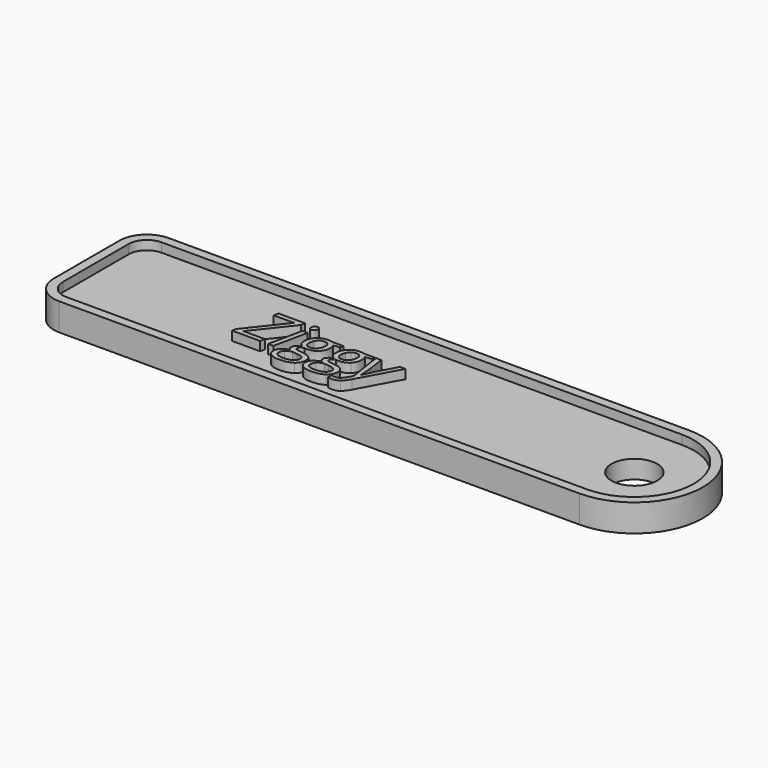
from build123d import *

# Parameters (mm, degrees)
F0_R     = 2.5
F1_DEPTH = 3
F3_DEPTH = 1


with BuildPart() as f1:
    # F0 (on Top) → F1 (new body)
    with BuildSketch(Plane.XY):
        with BuildLine():
            Line((44.131102711, 7.5), (-12.868897289, 7.5))
            ThreePointArc((-12.868897289, 7.5), (-14.9902176326, 6.6213203436), (-15.868897289, 4.5))
            Line((-15.868897289, 4.5), (-15.868897289, -4.5))
            ThreePointArc((-15.868897289, -4.5), (-14.9902176326, -6.6213203436), (-12.868897289, -7.5))
            Line((-12.868897289, -7.5), (44.131102711, -7.5))
            ThreePointArc((44.131102711, -7.5), (51.631102711, 0), (44.131102711, 7.5))
        make_face()
        with Locations((44.131102711, 0)):
            Circle(F0_R, mode=Mode.SUBTRACT)
    extrude(amount=F1_DEPTH)

    # F2 (on face) → F3 (cut)
    with BuildSketch(Plane.XY.offset(3)):
        with BuildLine():
            Line((44.131102711, 6.5), (-12.868897289, 6.5))
            ThreePointArc((-12.868897289, 6.5), (-14.2831108514, 5.9142135624), (-14.868897289, 4.5))
            Line((-14.868897289, 4.5), (-14.868897289, -4.5))
            ThreePointArc((-14.868897289, -4.5), (-14.2831108514, -5.9142135624), (-12.868897289, -6.5))
            Line((-12.868897289, -6.5), (44.131102711, -6.5))
            ThreePointArc((44.131102711, -6.5), (50.631102711, 0), (44.131102711, 6.5))
        make_face()
        with BuildLine():
            Line((10.0521096554, 1.2163628472), (11.310790211, 1.2163628472))
            Line((11.310790211, 1.2163628472), (11.2250697249, 0.8539496528))
            Line((11.2250697249, 0.8539496528), (10.510008961, 0.7725694444))
            add(Edge.make_bspline(
                [(10.510008961, 0.7725694444), (10.6488978499, 0.5620659722), (10.6488978499, 0.2365451389)],
                knots=[0, 0, 0, 1, 1, 1], degree=2))
            add(Edge.make_bspline(
                [(10.6488978499, 0.2365451389), (10.6488978499, -0.4112413194), (10.2539325721, -0.7958984375)],
                knots=[0, 0, 0, 1, 1, 1], degree=2))
            add(Edge.make_bspline(
                [(10.2539325721, -0.7958984375), (9.8589672943, -1.1805555556), (9.1981600026, -1.1805555556)],
                knots=[0, 0, 0, 1, 1, 1], degree=2))
            add(Edge.make_bspline(
                [(9.1981600026, -1.1805555556), (9.0115280582, -1.1805555556), (8.9127867387, -1.1534288194)],
                knots=[0, 0, 0, 1, 1, 1], degree=2))
            add(Edge.make_bspline(
                [(8.9127867387, -1.1534288194), (8.4418665999, -1.3335503472), (8.4418665999, -1.5983072917)],
                knots=[0, 0, 0, 1, 1, 1], degree=2))
            add(Edge.make_bspline(
                [(8.4418665999, -1.5983072917), (8.4418665999, -1.7371961806), (8.5536287526, -1.7827690972)],
                knots=[0, 0, 0, 1, 1, 1], degree=2))
            add(Edge.make_bspline(
                [(8.5536287526, -1.7827690972), (8.6653909054, -1.8283420139), (8.879149586, -1.85546875)],
                knots=[0, 0, 0, 1, 1, 1], degree=2))
            Line((8.879149586, -1.85546875), (9.2762850026, -1.9032118056))
            add(Edge.make_bspline(
                [(9.2762850026, -1.9032118056), (9.8893492387, -1.9780815972), (10.1660419471, -2.2016059028)],
                knots=[0, 0, 0, 1, 1, 1], degree=2))
            add(Edge.make_bspline(
                [(10.1660419471, -2.2016059028), (10.4427346554, -2.4251302083), (10.4427346554, -2.8591579861)],
                knots=[0, 0, 0, 1, 1, 1], degree=2))
            add(Edge.make_bspline(
                [(10.4427346554, -2.8591579861), (10.4427346554, -3.4830729167), (9.947400454, -3.8259548611)],
                knots=[0, 0, 0, 1, 1, 1], degree=2))
            add(Edge.make_bspline(
                [(9.947400454, -3.8259548611), (9.4520662526, -4.1688368056), (8.5536287526, -4.1688368056)],
                knots=[0, 0, 0, 1, 1, 1], degree=2))
            add(Edge.make_bspline(
                [(8.5536287526, -4.1688368056), (7.8960766693, -4.1688368056), (7.5228127804, -3.9192708333)],
                knots=[0, 0, 0, 1, 1, 1], degree=2))
            add(Edge.make_bspline(
                [(7.5228127804, -3.9192708333), (7.1495488915, -3.6697048611), (7.1495488915, -3.2150607639)],
                knots=[0, 0, 0, 1, 1, 1], degree=2))
            add(Edge.make_bspline(
                [(7.1495488915, -3.2150607639), (7.1495488915, -2.8591579861), (7.3936895165, -2.5981987847)],
                knots=[0, 0, 0, 1, 1, 1], degree=2))
            add(Edge.make_bspline(
                [(7.3936895165, -2.5981987847), (7.6378301415, -2.3372395833), (8.1836200721, -2.1538628472)],
                knots=[0, 0, 0, 1, 1, 1], degree=2))
            add(Edge.make_bspline(
                [(8.1836200721, -2.1538628472), (7.9199481971, -2.0149739583), (7.9199481971, -1.7437065972)],
                knots=[0, 0, 0, 1, 1, 1], degree=2))
            add(Edge.make_bspline(
                [(7.9199481971, -1.7437065972), (7.9199481971, -1.5093315972), (8.0924742387, -1.3416883681)],
                knots=[0, 0, 0, 1, 1, 1], degree=2))
            add(Edge.make_bspline(
                [(8.0924742387, -1.3416883681), (8.2650002804, -1.1740451389), (8.5742450721, -1.0286458333)],
                knots=[0, 0, 0, 1, 1, 1], degree=2))
            add(Edge.make_bspline(
                [(8.5742450721, -1.0286458333), (8.3604863915, -0.9201388889), (8.224852711, -0.7080078125)],
                knots=[0, 0, 0, 1, 1, 1], degree=2))
            add(Edge.make_bspline(
                [(8.224852711, -0.7080078125), (8.0892190304, -0.4958767361), (8.0892190304, -0.21484375)],
                knots=[0, 0, 0, 1, 1, 1], degree=2))
            add(Edge.make_bspline(
                [(8.0892190304, -0.21484375), (8.0892190304, 0.4437934028), (8.4944924679, 0.8642578125)],
                knots=[0, 0, 0, 1, 1, 1], degree=2))
            add(Edge.make_bspline(
                [(8.4944924679, 0.8642578125), (8.8997659054, 1.2847222222), (9.5301912526, 1.2847222222)],
                knots=[0, 0, 0, 1, 1, 1], degree=2))
            add(Edge.make_bspline(
                [(9.5301912526, 1.2847222222), (9.7949481971, 1.2847222222), (10.0521096554, 1.2163628472)],
                knots=[0, 0, 0, 1, 1, 1], degree=2))
        make_face(mode=Mode.SUBTRACT)
        Polygon((5.2441669471, -1.9780815972), (5.1324047943, -2.5), (2.0768492387, -2.5), (2.1723353499, -2.0355902778), (5.304930836, 1.9314236111), (3.0837936832, 1.9314236111), (3.1923006276, 2.4576822917), (6.1013718082, 2.4576822917), (6.0134811832, 1.9856770833), (2.8808856971, -1.9780815972), align=None, mode=Mode.SUBTRACT)
        Polygon((7.3806686832, 1.2163628472), (6.5863978499, -2.5), (6.0167363915, -2.5), (6.8110072249, 1.2163628472), align=None, mode=Mode.SUBTRACT)
        with BuildLine():
            Line((13.5308422943, 1.2163628472), (14.7895228499, 1.2163628472))
            Line((14.7895228499, 1.2163628472), (14.7038023637, 0.8539496528))
            Line((14.7038023637, 0.8539496528), (13.9887415999, 0.7725694444))
            add(Edge.make_bspline(
                [(13.9887415999, 0.7725694444), (14.1276304887, 0.5620659722), (14.1276304887, 0.2365451389)],
                knots=[0, 0, 0, 1, 1, 1], degree=2))
            add(Edge.make_bspline(
                [(14.1276304887, 0.2365451389), (14.1276304887, -0.4112413194), (13.732665211, -0.7958984375)],
                knots=[0, 0, 0, 1, 1, 1], degree=2))
            add(Edge.make_bspline(
                [(13.732665211, -0.7958984375), (13.3376999332, -1.1805555556), (12.6768926415, -1.1805555556)],
                knots=[0, 0, 0, 1, 1, 1], degree=2))
            add(Edge.make_bspline(
                [(12.6768926415, -1.1805555556), (12.4902606971, -1.1805555556), (12.3915193776, -1.1534288194)],
                knots=[0, 0, 0, 1, 1, 1], degree=2))
            add(Edge.make_bspline(
                [(12.3915193776, -1.1534288194), (11.9205992387, -1.3335503472), (11.9205992387, -1.5983072917)],
                knots=[0, 0, 0, 1, 1, 1], degree=2))
            add(Edge.make_bspline(
                [(11.9205992387, -1.5983072917), (11.9205992387, -1.7371961806), (12.0323613915, -1.7827690972)],
                knots=[0, 0, 0, 1, 1, 1], degree=2))
            add(Edge.make_bspline(
                [(12.0323613915, -1.7827690972), (12.1441235443, -1.8283420139), (12.3578822249, -1.85546875)],
                knots=[0, 0, 0, 1, 1, 1], degree=2))
            Line((12.3578822249, -1.85546875), (12.7550176415, -1.9032118056))
            add(Edge.make_bspline(
                [(12.7550176415, -1.9032118056), (13.3680818776, -1.9780815972), (13.644774586, -2.2016059028)],
                knots=[0, 0, 0, 1, 1, 1], degree=2))
            add(Edge.make_bspline(
                [(13.644774586, -2.2016059028), (13.9214672943, -2.4251302083), (13.9214672943, -2.8591579861)],
                knots=[0, 0, 0, 1, 1, 1], degree=2))
            add(Edge.make_bspline(
                [(13.9214672943, -2.8591579861), (13.9214672943, -3.4830729167), (13.4261330929, -3.8259548611)],
                knots=[0, 0, 0, 1, 1, 1], degree=2))
            add(Edge.make_bspline(
                [(13.4261330929, -3.8259548611), (12.9307988915, -4.1688368056), (12.0323613915, -4.1688368056)],
                knots=[0, 0, 0, 1, 1, 1], degree=2))
            add(Edge.make_bspline(
                [(12.0323613915, -4.1688368056), (11.3748093082, -4.1688368056), (11.0015454193, -3.9192708333)],
                knots=[0, 0, 0, 1, 1, 1], degree=2))
            add(Edge.make_bspline(
                [(11.0015454193, -3.9192708333), (10.6282815304, -3.6697048611), (10.6282815304, -3.2150607639)],
                knots=[0, 0, 0, 1, 1, 1], degree=2))
            add(Edge.make_bspline(
                [(10.6282815304, -3.2150607639), (10.6282815304, -2.8591579861), (10.8724221554, -2.5981987847)],
                knots=[0, 0, 0, 1, 1, 1], degree=2))
            add(Edge.make_bspline(
                [(10.8724221554, -2.5981987847), (11.1165627804, -2.3372395833), (11.662352711, -2.1538628472)],
                knots=[0, 0, 0, 1, 1, 1], degree=2))
            add(Edge.make_bspline(
                [(11.662352711, -2.1538628472), (11.398680836, -2.0149739583), (11.398680836, -1.7437065972)],
                knots=[0, 0, 0, 1, 1, 1], degree=2))
            add(Edge.make_bspline(
                [(11.398680836, -1.7437065972), (11.398680836, -1.5093315972), (11.5712068776, -1.3416883681)],
                knots=[0, 0, 0, 1, 1, 1], degree=2))
            add(Edge.make_bspline(
                [(11.5712068776, -1.3416883681), (11.7437329193, -1.1740451389), (12.052977711, -1.0286458333)],
                knots=[0, 0, 0, 1, 1, 1], degree=2))
            add(Edge.make_bspline(
                [(12.052977711, -1.0286458333), (11.8392190304, -0.9201388889), (11.7035853499, -0.7080078125)],
                knots=[0, 0, 0, 1, 1, 1], degree=2))
            add(Edge.make_bspline(
                [(11.7035853499, -0.7080078125), (11.5679516693, -0.4958767361), (11.5679516693, -0.21484375)],
                knots=[0, 0, 0, 1, 1, 1], degree=2))
            add(Edge.make_bspline(
                [(11.5679516693, -0.21484375), (11.5679516693, 0.4437934028), (11.9732251068, 0.8642578125)],
                knots=[0, 0, 0, 1, 1, 1], degree=2))
            add(Edge.make_bspline(
                [(11.9732251068, 0.8642578125), (12.3784985443, 1.2847222222), (13.0089238915, 1.2847222222)],
                knots=[0, 0, 0, 1, 1, 1], degree=2))
            add(Edge.make_bspline(
                [(13.0089238915, 1.2847222222), (13.273680836, 1.2847222222), (13.5308422943, 1.2163628472)],
                knots=[0, 0, 0, 1, 1, 1], degree=2))
        make_face(mode=Mode.SUBTRACT)
        with BuildLine():
            Line((15.4329690304, -2.5607638889), (14.8698179887, 1.2163628472))
            Line((14.8698179887, 1.2163628472), (15.4394794471, 1.2163628472))
            Line((15.4394794471, 1.2163628472), (15.6912155582, -0.6315104167))
            add(Edge.make_bspline(
                [(15.6912155582, -0.6315104167), (15.724852711, -0.8658854167), (15.7568622596, -1.3216145833)],
                knots=[0, 0, 0, 1, 1, 1], degree=2))
            add(Edge.make_bspline(
                [(15.7568622596, -1.3216145833), (15.7888718082, -1.77734375), (15.7888718082, -2.0562065972)],
                knots=[0, 0, 0, 1, 1, 1], degree=2))
            Line((15.7888718082, -2.0562065972), (15.8094881276, -2.0562065972))
            add(Edge.make_bspline(
                [(15.8094881276, -2.0562065972), (15.9277606971, -1.7610677083), (16.1040844818, -1.3774956597)],
                knots=[0, 0, 0, 1, 1, 1], degree=2))
            add(Edge.make_bspline(
                [(16.1040844818, -1.3774956597), (16.2804082665, -0.9939236111), (16.3650436832, -0.8485243056)],
                knots=[0, 0, 0, 1, 1, 1], degree=2))
            Line((16.3650436832, -0.8485243056), (17.4674742387, 1.2163628472))
            Line((17.4674742387, 1.2163628472), (18.0707728499, 1.2163628472))
            Line((18.0707728499, 1.2163628472), (15.7107468082, -3.1304253472))
            add(Edge.make_bspline(
                [(15.7107468082, -3.1304253472), (15.3960766693, -3.7141927083), (15.0873744124, -3.9415147569)],
                knots=[0, 0, 0, 1, 1, 1], degree=2))
            add(Edge.make_bspline(
                [(15.0873744124, -3.9415147569), (14.7786721554, -4.1688368056), (14.3446443776, -4.1688368056)],
                knots=[0, 0, 0, 1, 1, 1], degree=2))
            add(Edge.make_bspline(
                [(14.3446443776, -4.1688368056), (14.1005037526, -4.1688368056), (13.869383961, -4.0972222222)],
                knots=[0, 0, 0, 1, 1, 1], degree=2))
            Line((13.869383961, -4.0972222222), (13.869383961, -3.6393229167))
            add(Edge.make_bspline(
                [(13.869383961, -3.6393229167), (14.0831426415, -3.7000868056), (14.3142624332, -3.7000868056)],
                knots=[0, 0, 0, 1, 1, 1], degree=2))
            add(Edge.make_bspline(
                [(14.3142624332, -3.7000868056), (14.592040211, -3.7000868056), (14.7906079193, -3.5291883681)],
                knots=[0, 0, 0, 1, 1, 1], degree=2))
            add(Edge.make_bspline(
                [(14.7906079193, -3.5291883681), (14.9891756276, -3.3582899306), (15.1758075721, -3.0219184028)],
                knots=[0, 0, 0, 1, 1, 1], degree=2))
            Line((15.1758075721, -3.0219184028), (15.4329690304, -2.5607638889))
        make_face(mode=Mode.SUBTRACT)
        with BuildLine():
            add(Edge.make_bspline(
                [(7.0584030582, 1.9297960069), (6.9705124332, 2.0128038194), (6.9705124332, 2.1657986111)],
                knots=[0, 0, 0, 1, 1, 1], degree=2))
            add(Edge.make_bspline(
                [(6.9705124332, 2.1657986111), (6.9705124332, 2.3556857639), (7.0790193776, 2.4761284722)],
                knots=[0, 0, 0, 1, 1, 1], degree=2))
            add(Edge.make_bspline(
                [(7.0790193776, 2.4761284722), (7.1875263221, 2.5965711806), (7.3600523637, 2.5965711806)],
                knots=[0, 0, 0, 1, 1, 1], degree=2))
            add(Edge.make_bspline(
                [(7.3600523637, 2.5965711806), (7.658446461, 2.5965711806), (7.658446461, 2.2916666667)],
                knots=[0, 0, 0, 1, 1, 1], degree=2))
            add(Edge.make_bspline(
                [(7.658446461, 2.2916666667), (7.658446461, 2.1050347222), (7.545056704, 1.9759114583)],
                knots=[0, 0, 0, 1, 1, 1], degree=2))
            add(Edge.make_bspline(
                [(7.545056704, 1.9759114583), (7.4316669471, 1.8467881944), (7.2819273637, 1.8467881944)],
                knots=[0, 0, 0, 1, 1, 1], degree=2))
            add(Edge.make_bspline(
                [(7.2819273637, 1.8467881944), (7.1462936832, 1.8467881944), (7.0584030582, 1.9297960069)],
                knots=[0, 0, 0, 1, 1, 1], degree=2))
        make_face(mode=Mode.SUBTRACT)
        with BuildLine():
            add(Edge.make_bspline(
                [(8.7516539262, 0.3401692708), (8.6415193776, 0.0944010417), (8.6415193776, -0.1942274306)],
                knots=[0, 0, 0, 1, 1, 1], degree=2))
            add(Edge.make_bspline(
                [(8.6415193776, -0.1942274306), (8.6415193776, -0.4828559028), (8.7939716346, -0.6336805556)],
                knots=[0, 0, 0, 1, 1, 1], degree=2))
            add(Edge.make_bspline(
                [(8.7939716346, -0.6336805556), (8.9464238915, -0.7845052083), (9.2176912526, -0.7845052083)],
                knots=[0, 0, 0, 1, 1, 1], degree=2))
            add(Edge.make_bspline(
                [(9.2176912526, -0.7845052083), (9.4857034054, -0.7845052083), (9.6858987179, -0.6418185764)],
                knots=[0, 0, 0, 1, 1, 1], degree=2))
            add(Edge.make_bspline(
                [(9.6858987179, -0.6418185764), (9.8860940304, -0.4991319444), (9.9929733707, -0.2501085069)],
                knots=[0, 0, 0, 1, 1, 1], degree=2))
            add(Edge.make_bspline(
                [(9.9929733707, -0.2501085069), (10.099852711, -0.0010850694), (10.099852711, 0.2907986111)],
                knots=[0, 0, 0, 1, 1, 1], degree=2))
            add(Edge.make_bspline(
                [(10.099852711, 0.2907986111), (10.099852711, 0.5685763889), (9.9506556624, 0.7145182292)],
                knots=[0, 0, 0, 1, 1, 1], degree=2))
            add(Edge.make_bspline(
                [(9.9506556624, 0.7145182292), (9.8014586137, 0.8604600694), (9.523680836, 0.8604600694)],
                knots=[0, 0, 0, 1, 1, 1], degree=2))
            add(Edge.make_bspline(
                [(9.523680836, 0.8604600694), (9.2589238915, 0.8604600694), (9.0603561832, 0.7231987847)],
                knots=[0, 0, 0, 1, 1, 1], degree=2))
            add(Edge.make_bspline(
                [(9.0603561832, 0.7231987847), (8.8617884749, 0.5859375), (8.7516539262, 0.3401692708)],
                knots=[0, 0, 0, 1, 1, 1], degree=2))
        make_face()
        with BuildLine():
            add(Edge.make_bspline(
                [(7.9156079193, -2.6453993056), (7.6985940304, -2.8591579861), (7.6985940304, -3.1608072917)],
                knots=[0, 0, 0, 1, 1, 1], degree=2))
            add(Edge.make_bspline(
                [(7.6985940304, -3.1608072917), (7.6985940304, -3.4223090278), (7.9194056624, -3.5747612847)],
                knots=[0, 0, 0, 1, 1, 1], degree=2))
            add(Edge.make_bspline(
                [(7.9194056624, -3.5747612847), (8.1402172943, -3.7272135417), (8.5742450721, -3.7272135417)],
                knots=[0, 0, 0, 1, 1, 1], degree=2))
            add(Edge.make_bspline(
                [(8.5742450721, -3.7272135417), (9.1905645165, -3.7272135417), (9.5383292735, -3.5118272569)],
                knots=[0, 0, 0, 1, 1, 1], degree=2))
            add(Edge.make_bspline(
                [(9.5383292735, -3.5118272569), (9.8860940304, -3.2964409722), (9.8860940304, -2.9036458333)],
                knots=[0, 0, 0, 1, 1, 1], degree=2))
            add(Edge.make_bspline(
                [(9.8860940304, -2.9036458333), (9.8860940304, -2.6931423611), (9.703259829, -2.5710720486)],
                knots=[0, 0, 0, 1, 1, 1], degree=2))
            add(Edge.make_bspline(
                [(9.703259829, -2.5710720486), (9.5204256276, -2.4490017361), (9.0788023637, -2.4012586806)],
                knots=[0, 0, 0, 1, 1, 1], degree=2))
            Line((9.0788023637, -2.4012586806), (8.5395228499, -2.3470052083))
            add(Edge.make_bspline(
                [(8.5395228499, -2.3470052083), (8.1326218082, -2.431640625), (7.9156079193, -2.6453993056)],
                knots=[0, 0, 0, 1, 1, 1], degree=2))
        make_face()
        with BuildLine():
            add(Edge.make_bspline(
                [(11.3943405582, -2.6453993056), (11.1773266693, -2.8591579861), (11.1773266693, -3.1608072917)],
                knots=[0, 0, 0, 1, 1, 1], degree=2))
            add(Edge.make_bspline(
                [(11.1773266693, -3.1608072917), (11.1773266693, -3.4223090278), (11.3981383012, -3.5747612847)],
                knots=[0, 0, 0, 1, 1, 1], degree=2))
            add(Edge.make_bspline(
                [(11.3981383012, -3.5747612847), (11.6189499332, -3.7272135417), (12.052977711, -3.7272135417)],
                knots=[0, 0, 0, 1, 1, 1], degree=2))
            add(Edge.make_bspline(
                [(12.052977711, -3.7272135417), (12.6692971554, -3.7272135417), (13.0170619124, -3.5118272569)],
                knots=[0, 0, 0, 1, 1, 1], degree=2))
            add(Edge.make_bspline(
                [(13.0170619124, -3.5118272569), (13.3648266693, -3.2964409722), (13.3648266693, -2.9036458333)],
                knots=[0, 0, 0, 1, 1, 1], degree=2))
            add(Edge.make_bspline(
                [(13.3648266693, -2.9036458333), (13.3648266693, -2.6931423611), (13.1819924679, -2.5710720486)],
                knots=[0, 0, 0, 1, 1, 1], degree=2))
            add(Edge.make_bspline(
                [(13.1819924679, -2.5710720486), (12.9991582665, -2.4490017361), (12.5575350026, -2.4012586806)],
                knots=[0, 0, 0, 1, 1, 1], degree=2))
            Line((12.5575350026, -2.4012586806), (12.0182554887, -2.3470052083))
            add(Edge.make_bspline(
                [(12.0182554887, -2.3470052083), (11.6113544471, -2.431640625), (11.3943405582, -2.6453993056)],
                knots=[0, 0, 0, 1, 1, 1], degree=2))
        make_face()
        with BuildLine():
            add(Edge.make_bspline(
                [(12.2303865651, 0.3401692708), (12.1202520165, 0.0944010417), (12.1202520165, -0.1942274306)],
                knots=[0, 0, 0, 1, 1, 1], degree=2))
            add(Edge.make_bspline(
                [(12.1202520165, -0.1942274306), (12.1202520165, -0.4828559028), (12.2727042735, -0.6336805556)],
                knots=[0, 0, 0, 1, 1, 1], degree=2))
            add(Edge.make_bspline(
                [(12.2727042735, -0.6336805556), (12.4251565304, -0.7845052083), (12.6964238915, -0.7845052083)],
                knots=[0, 0, 0, 1, 1, 1], degree=2))
            add(Edge.make_bspline(
                [(12.6964238915, -0.7845052083), (12.9644360443, -0.7845052083), (13.1646313568, -0.6418185764)],
                knots=[0, 0, 0, 1, 1, 1], degree=2))
            add(Edge.make_bspline(
                [(13.1646313568, -0.6418185764), (13.3648266693, -0.4991319444), (13.4717060096, -0.2501085069)],
                knots=[0, 0, 0, 1, 1, 1], degree=2))
            add(Edge.make_bspline(
                [(13.4717060096, -0.2501085069), (13.5785853499, -0.0010850694), (13.5785853499, 0.2907986111)],
                knots=[0, 0, 0, 1, 1, 1], degree=2))
            add(Edge.make_bspline(
                [(13.5785853499, 0.2907986111), (13.5785853499, 0.5685763889), (13.4293883012, 0.7145182292)],
                knots=[0, 0, 0, 1, 1, 1], degree=2))
            add(Edge.make_bspline(
                [(13.4293883012, 0.7145182292), (13.2801912526, 0.8604600694), (13.0024134749, 0.8604600694)],
                knots=[0, 0, 0, 1, 1, 1], degree=2))
            add(Edge.make_bspline(
                [(13.0024134749, 0.8604600694), (12.7376565304, 0.8604600694), (12.5390888221, 0.7231987847)],
                knots=[0, 0, 0, 1, 1, 1], degree=2))
            add(Edge.make_bspline(
                [(12.5390888221, 0.7231987847), (12.3405211137, 0.5859375), (12.2303865651, 0.3401692708)],
                knots=[0, 0, 0, 1, 1, 1], degree=2))
        make_face()
    extrude(amount=-F3_DEPTH, mode=Mode.SUBTRACT)


solid = f1.part
